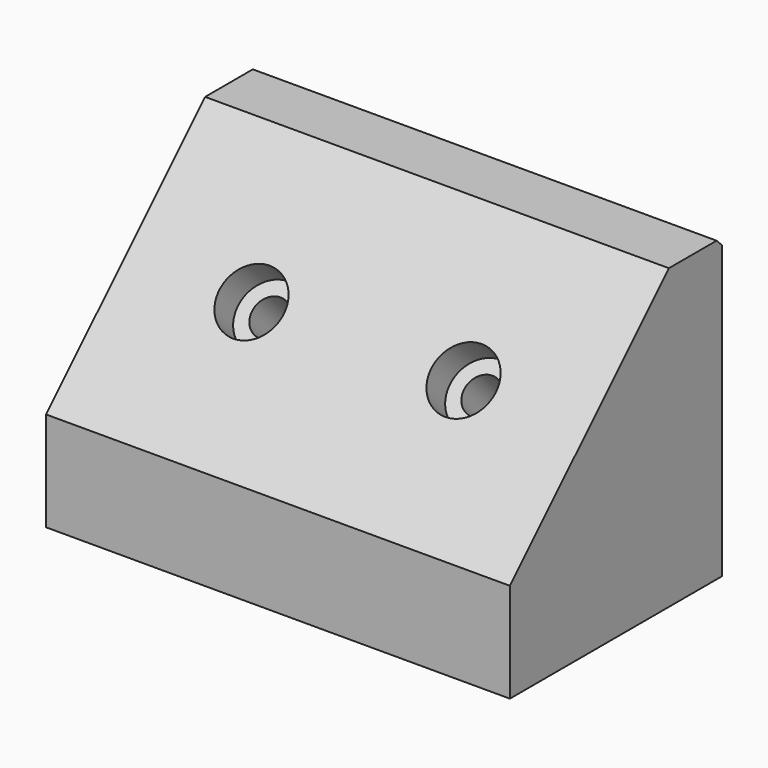
from build123d import *

# Parameters (mm, degrees)
F0_W           = 70
F0_H           = 40
F1_DEPTH       = 45
F2_SIZE        = 30
F4_D           = 5.5
F4_CBORE_D     = 9.75
F4_CBORE_DEPTH = 5
F5_SIZE        = 1


with BuildPart() as f1:
    # F0 (on Top) → F1 (new body)
    with BuildSketch(Plane.XY):
        with Locations((-66.7884647846, -34.8549866823)):
            Rectangle(F0_W, F0_H)
    extrude(amount=F1_DEPTH)

    # F2
    f2_edges = [f1.edges().sort_by_distance(p)[0] for p in [
        (-66.788465, -54.854987, 45),
    ]]
    chamfer(f2_edges, length=F2_SIZE)

    # F4 (through all)
    with Locations(Plane(origin=(0, -34.9274933411, 34.9274933411), x_dir=(1, 0, 0), z_dir=(0, -0.7071067812, 0.7071067812))):
        with Locations((-82.7884647846, -6.9685279115), (-50.7884647846, -6.9685279115)):
            CounterBoreHole(F4_D / 2, F4_CBORE_D / 2, F4_CBORE_DEPTH)

    # F5
    f5_edges = [f1.edges().sort_by_distance(p)[0] for p in [
        (-66.788465, -14.854987, 45),
    ]]
    chamfer(f5_edges, length=F5_SIZE)


solid = f1.part
